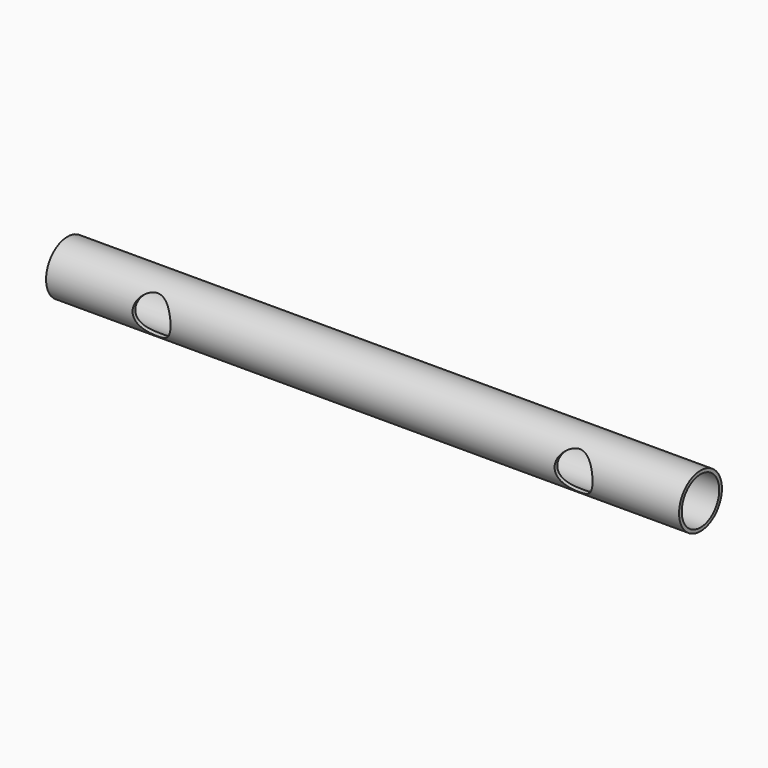
from build123d import *

# Parameters (mm, degrees)
F0_R     = 12.7
F0_R_2   = 11.1125
F1_DEPTH = 150
F2_R     = 9
F3_DEPTH = 15


with BuildPart() as f1:
    # F0 (on Right) → F1 (new body, symmetric)
    with BuildSketch(Plane.YZ):
        Circle(F0_R)
        Circle(F0_R_2, mode=Mode.SUBTRACT)
    extrude(amount=F1_DEPTH, both=True)

    # F2 (on Front) → F3 (cut, symmetric)
    with BuildSketch(Plane.XZ):
        with Locations((-100.003, 0)):
            Circle(F2_R)
        with Locations((100.003, 0)):
            Circle(F2_R)
    extrude(amount=F3_DEPTH, both=True, mode=Mode.SUBTRACT)


solid = f1.part
